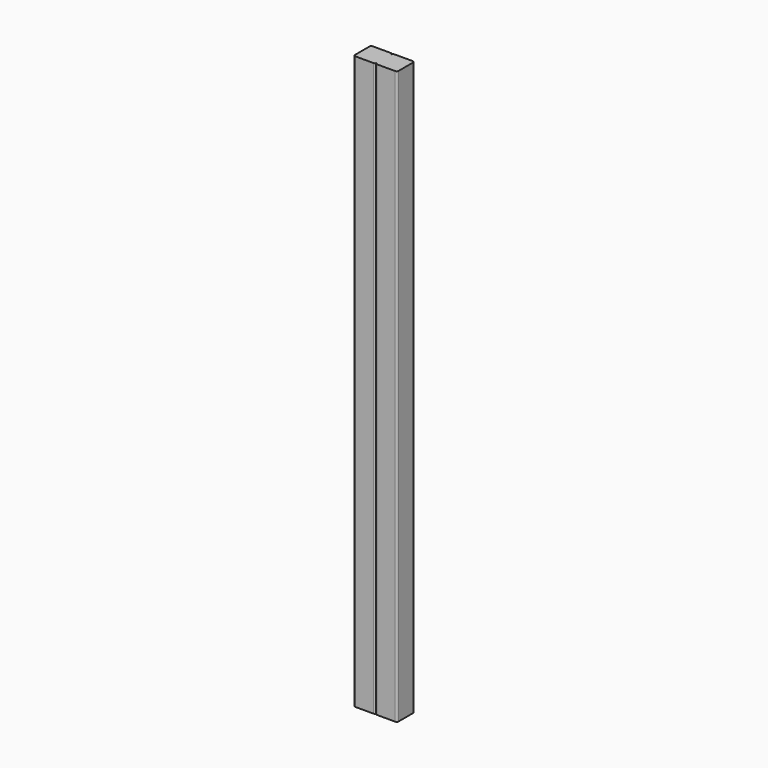
from build123d import *

# Parameters (mm, degrees)
F1_DEPTH = 1003.3


with BuildPart() as f1:
    # F0 (on Top) → F1 (new body)
    with BuildSketch(Plane.XY):
        with BuildLine():
            ThreePointArc((38.1, 15.875), (37.170064, 18.120064), (34.925, 19.05))
            Line((34.925, 19.05), (3.175, 19.05))
            ThreePointArc((3.175, 19.05), (0.929936, 18.120064), (0, 15.875))
            Line((0, 15.875), (0, -15.875))
            ThreePointArc((0, -15.875), (0.929936, -18.120064), (3.175, -19.05))
            Line((3.175, -19.05), (34.925, -19.05))
            ThreePointArc((34.925, -19.05), (37.170064, -18.120064), (38.1, -15.875))
            Line((38.1, -15.875), (38.1, 15.875))
        make_face()
        with BuildLine():
            Line((0, -15.875), (0, 15.875))
            ThreePointArc((0, 15.875), (-0.929936, 18.120064), (-3.175, 19.05))
            Line((-3.175, 19.05), (-34.925, 19.05))
            ThreePointArc((-34.925, 19.05), (-37.170064, 18.120064), (-38.1, 15.875))
            Line((-38.1, 15.875), (-38.1, -15.875))
            ThreePointArc((-38.1, -15.875), (-37.170064, -18.120064), (-34.925, -19.05))
            Line((-34.925, -19.05), (-3.175, -19.05))
            ThreePointArc((-3.175, -19.05), (-0.929936, -18.120064), (0, -15.875))
        make_face()
    extrude(amount=F1_DEPTH)


solid = f1.part
